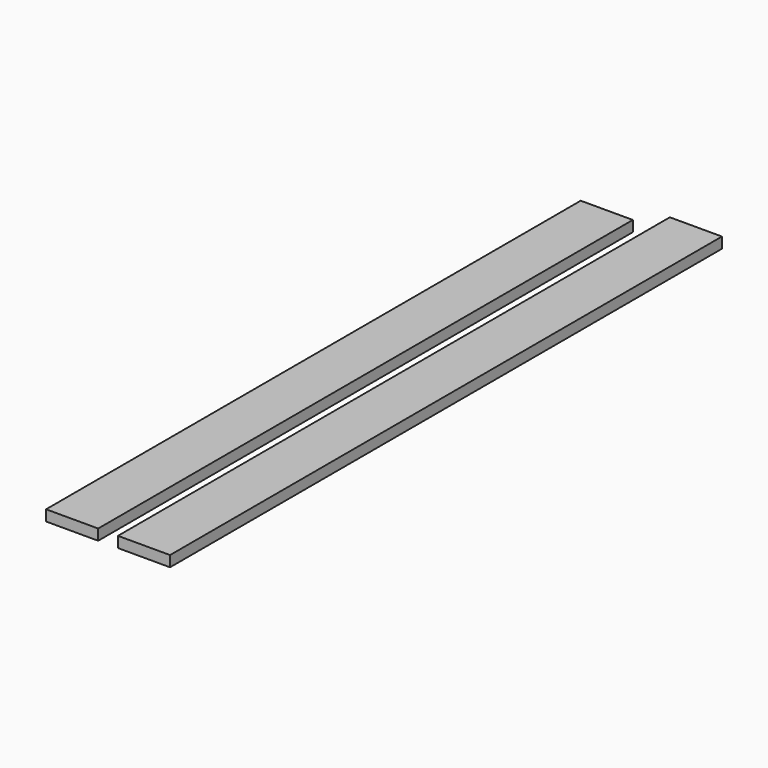
from build123d import *

# Parameters (mm, degrees)
F0_W     = 184.15
F0_H     = 38.1
F1_DEPTH = 2362.2
F6_DEPTH = 2438.4


with BuildPart() as f1:
    # F0 (on Front) → F1 (new body)
    with BuildSketch(Plane.XZ):
        with Locations((-92.075, 19.05)):
            Rectangle(F0_W, F0_H)
    extrude(amount=F1_DEPTH)


with BuildPart() as f2_1:
    # F2: copy of F1
    add(f1.part.moved(Location((254, 0, 0))))


with BuildPart() as f4_1:
    # F4: copy of F1
    add(f1.part.moved(Location((254, 0, 0))))


with BuildPart() as f6:
    # F0 (on Front) → F6 (new body)
    with BuildSketch(Plane.XZ):
        with Locations((-92.075, 19.05)):
            Rectangle(F0_W, F0_H)
    extrude(amount=-F6_DEPTH)


with BuildPart() as f7_1:
    # F7: copy of F6
    add(f6.part.moved(Location((254, -2362.2, 0))))


solid = Compound([f1.part, f7_1.part])
